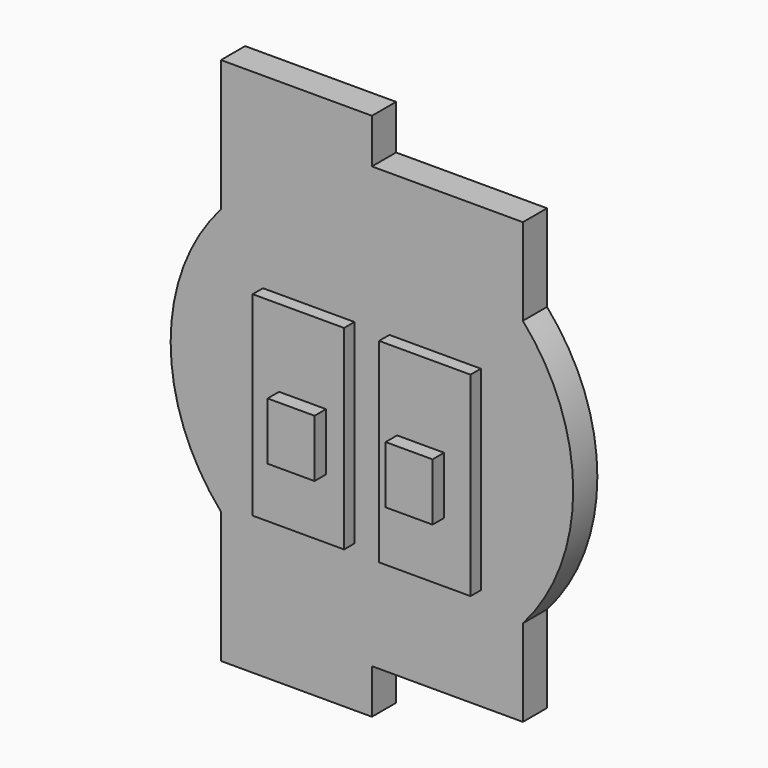
from build123d import *

# Parameters (mm, degrees)
F2_DEPTH = 2.1
F1_W     = 6.362536
F1_H     = 13.562245
F1_W_2   = 3.264985
F1_H_2   = 3.997409
F3_DEPTH = 3
F4_DEPTH = 4


with BuildPart() as f2:
    # F0 (on Front) → F2 (new body)
    with BuildSketch(Plane.XZ):
        with BuildLine():
            Line((-10.5, 18.4), (-10.5, 9.26013))
            ThreePointArc((-10.5, 9.26013), (-14, 0), (-10.5, -9.26013))
            Line((-10.5, -9.26013), (-10.5, -18.4))
            Line((-10.5, -18.4), (0, -18.4))
            Line((0, -18.4), (0, -15.3))
            Line((0, -15.3), (10.5, -15.3))
            Line((10.5, -15.3), (10.5, -9.26013))
            ThreePointArc((10.5, -9.26013), (14, 0), (10.5, 9.26013))
            Line((10.5, 9.26013), (10.5, 15.3))
            Line((10.5, 15.3), (0, 15.3))
            Line((0, 15.3), (0, 18.4))
            Line((0, 18.4), (-10.5, 18.4))
        make_face()
    extrude(amount=F2_DEPTH)

    # F1 (on face) → F3 (join)
    with BuildSketch(Plane.XZ):
        with Locations((-4.397359, -1.402165)):
            Rectangle(F1_W, F1_H)
        with Locations((-4.104347, -1.998704)):
            Rectangle(F1_W_2, F1_H_2, mode=Mode.SUBTRACT)
        with Locations((4.397359, -1.402165)):
            Rectangle(F1_W, F1_H)
        with Locations((4.104347, -1.998704)):
            Rectangle(F1_W_2, F1_H_2, mode=Mode.SUBTRACT)
    extrude(amount=F3_DEPTH)

    # F1 (on face) → F4 (join)
    with BuildSketch(Plane.XZ):
        with Locations((-4.104347, -1.998704)):
            Rectangle(F1_W_2, F1_H_2)
        with Locations((4.104347, -1.998704)):
            Rectangle(F1_W_2, F1_H_2)
    extrude(amount=F4_DEPTH)


solid = f2.part
